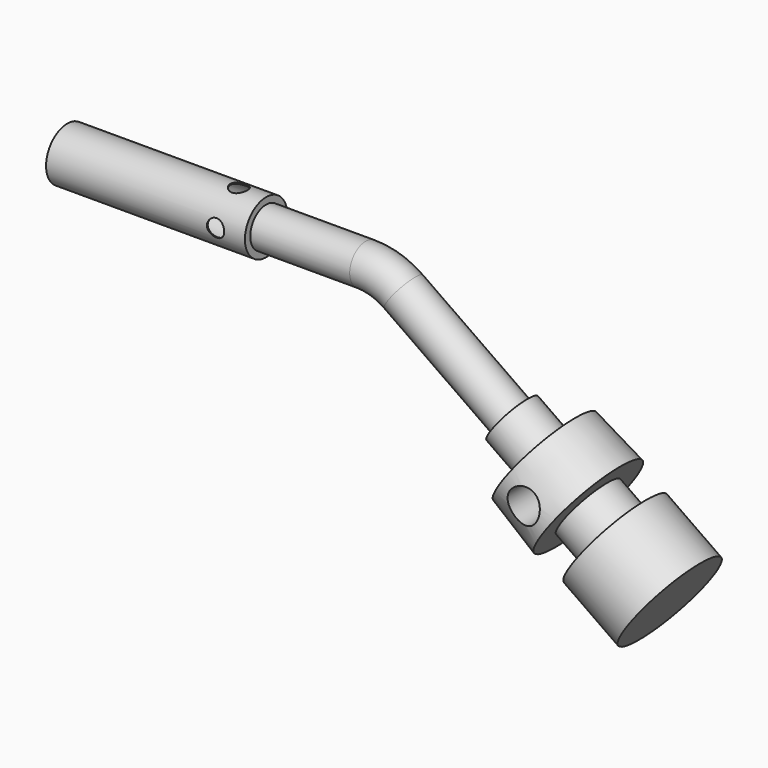
from build123d import *

# Parameters (mm, degrees)
F0_R           = 2.54
F1_DEPTH       = 19.05
F2_R           = 1.905
F5_R           = 2.54
F5_R_2         = 1.905
F6_DEPTH       = 3.81
F7_R           = 5.08
F7_R_2         = 2.54
F8_DEPTH       = 5.08
F8_TAPER       = -3
F9_R           = 3.175
F10_DEPTH      = 3.175
F11_R          = 5.08
F11_R_2        = 3.175
F12_DEPTH      = 6.35
F13_R          = 2.4436980308
F14_DEPTH      = 17.78
F15_R          = 0.8255
F16_DEPTH      = 23.1575077208
F16_DEPTH_BACK = 2.541
F17_R          = 0.8255
F18_DEPTH      = 5.3472316188
F18_DEPTH_BACK = 5.3472316188
F19_R          = 1.5875
F20_DEPTH      = 5.3472316188


with BuildPart() as f1:
    # F0 (on Right) → F1 (new body)
    with BuildSketch(Plane.YZ):
        Circle(F0_R)
    extrude(amount=F1_DEPTH)

    # F4: sweep along a path in F3
    with BuildLine(Plane.XZ) as f4_path:
        Line((19.05, 0), (28.575, 0))
        ThreePointArc((28.575, 0), (30.4844818269, -0.2938973627), (32.2172103708, -1.1483845188))
        Line((32.2172103708, -1.1483845188), (42.6204413333, -8.4328052604))
    # F2 (on face) → F4 (sweep)
    with BuildSketch(Plane.YZ.offset(19.05)):
        Circle(F2_R)
    sweep(path=f4_path.line)

    # F5 (on face) → F6 (join)
    with BuildSketch(Plane(origin=(32.5608678312, 0, -22.7993651061), x_dir=(0, 1, 0), z_dir=(0.8191520443, 0, -0.5735764364))):
        with Locations((0, 17.5383311875)):
            Circle(F5_R)
        with Locations((0, 17.5383311875)):
            Circle(F5_R_2, mode=Mode.SUBTRACT)
        with Locations((0, 17.5383311875)):
            Circle(F5_R_2)
    extrude(amount=F6_DEPTH)

    # F7 (on face) → F8 (join)
    with BuildSketch(Plane(origin=(35.68183712, 0, -24.9846913286), x_dir=(0, 1, 0), z_dir=(0.8191520443, 0, -0.5735764364))):
        with Locations((0, 17.5383311875)):
            Circle(F7_R)
        with Locations((0, 17.5383311875)):
            Circle(F7_R_2, mode=Mode.SUBTRACT)
        with Locations((0, 17.5383311875)):
            Circle(F7_R_2)
    extrude(amount=F8_DEPTH, taper=F8_TAPER)

    # F9 (on face) → F10 (join)
    with BuildSketch(Plane(origin=(39.843129505, 0, -27.8984596252), x_dir=(0, 1, 0), z_dir=(0.8191520443, 0, -0.5735764364))):
        with Locations((0, 17.5383311875)):
            Circle(F9_R)
    extrude(amount=F10_DEPTH)

    # F11 (on face) → F12 (join)
    with BuildSketch(Plane(origin=(42.4439372456, 0, -29.7195648107), x_dir=(0, 1, 0), z_dir=(0.8191520443, 0, -0.5735764364))):
        with Locations((0, 17.5383311875)):
            Circle(F11_R)
        with Locations((0, 17.5383311875)):
            Circle(F11_R_2, mode=Mode.SUBTRACT)
        with Locations((0, 17.5383311875)):
            Circle(F11_R_2)
    extrude(amount=F12_DEPTH)

    # F13 (on face) → F14 (cut)
    with BuildSketch(Plane(origin=(0, 0, 0), x_dir=(0, -1, 0), z_dir=(-1, 0, 0))):
        Circle(F13_R)
    extrude(amount=-F14_DEPTH, mode=Mode.SUBTRACT)

    # F15 (on Top) → F16 (cut, two sides)
    with BuildSketch(Plane.XY) as f16_sk:
        with Locations((16.4403449744, 0)):
            Circle(F15_R)
    extrude(amount=-F16_DEPTH, mode=Mode.SUBTRACT)
    extrude(f16_sk.sketch, amount=F16_DEPTH_BACK, mode=Mode.SUBTRACT)

    # F17 (on Front) → F18 (cut, two sides)
    with BuildSketch(Plane.XZ) as f18_sk:
        with Locations((16.2350572646, 0)):
            Circle(F17_R)
    extrude(amount=-F18_DEPTH, mode=Mode.SUBTRACT)
    extrude(f18_sk.sketch, amount=F18_DEPTH_BACK, mode=Mode.SUBTRACT)

    # F19 (on Front) → F20 (cut, through all)
    with BuildSketch(Plane.XZ):
        with Locations((47.8220568145, -12.0750156313)):
            Circle(F19_R)
    extrude(amount=F20_DEPTH, mode=Mode.SUBTRACT)


solid = f1.part
